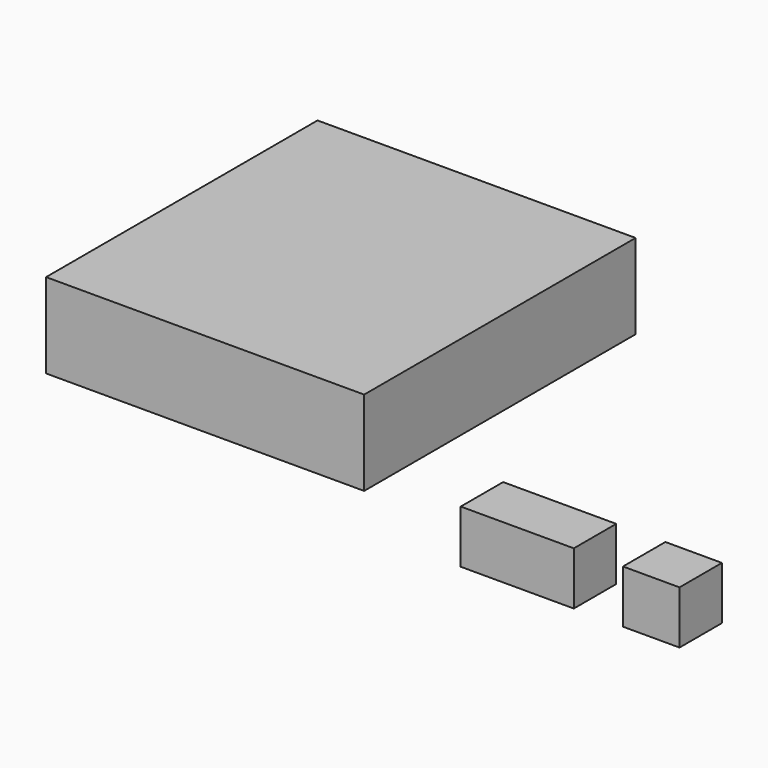
from build123d import *

# Parameters (mm, degrees)
F0_W     = 406.4
F0_H     = 190.5
F1_DEPTH = 190.5
F2_W     = 203.2
F2_H     = 190.5
F3_DEPTH = 190.5
F4_W     = 1143
F4_H     = 1219.2
F5_DEPTH = 304.8


with BuildPart() as f1:
    # F0 (on Front) → F1 (new body)
    with BuildSketch(Plane.XZ):
        with Locations((203.2, 95.25)):
            Rectangle(F0_W, F0_H)
    extrude(amount=F1_DEPTH)


with BuildPart() as f3:
    # F2 (on Front) → F3 (new body)
    with BuildSketch(Plane.XZ):
        with Locations((684.562398, 95.25)):
            Rectangle(F2_W, F2_H)
    extrude(amount=F3_DEPTH)


with BuildPart() as f5:
    # F4 (on Top) → F5 (new body)
    with BuildSketch(Plane.XY):
        with Locations((-1070.932314, 609.6)):
            Rectangle(F4_W, F4_H)
    extrude(amount=F5_DEPTH)


solid = Compound([f1.part, f3.part, f5.part])
